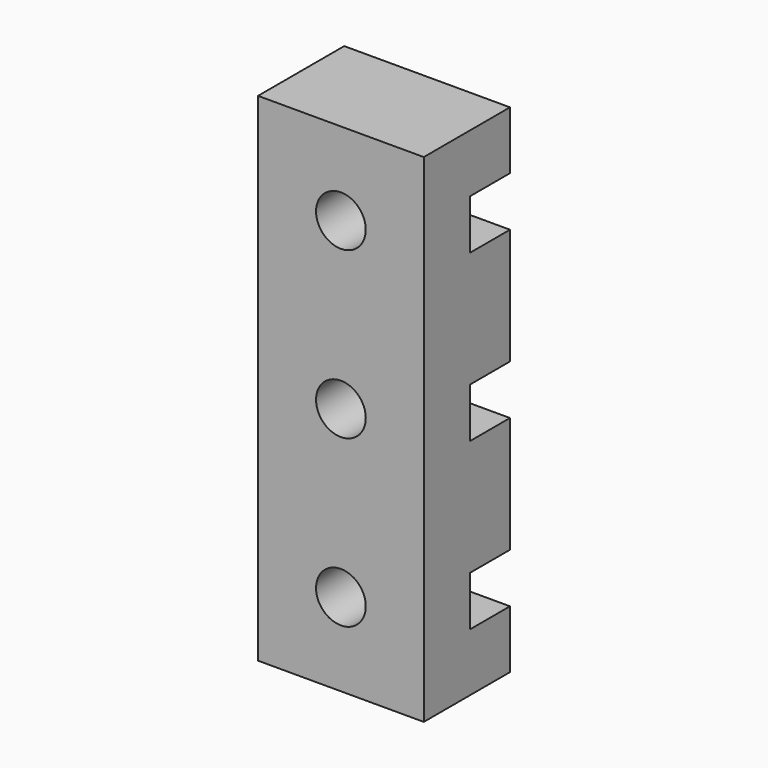
from build123d import *

# Parameters (mm, degrees)
SKETCH002_W     = 1.651
SKETCH002_H     = 7.62
PAD_DEPTH       = 2.54
SKETCH003_W     = 0.761982
SKETCH003_H     = 0.762
SKETCH003_W_2   = 0.761985
SKETCH003_W_3   = 0.761994
POCKET_DEPTH    = 1.778
SKETCH004_R     = 0.381
POCKET001_DEPTH = 1.652


with BuildPart() as part:
    # Sketch002 → Pad (new body)
    with BuildSketch(Plane.YZ):
        with Locations((0.8255, 0)):
            Rectangle(SKETCH002_W, SKETCH002_H)
    extrude(amount=PAD_DEPTH)

    # Sketch003 (on Face6 of Pad) → Pocket (cut)
    with BuildSketch(Plane.YZ.offset(2.54)):
        with Locations((1.27001, 2.54)):
            Rectangle(SKETCH003_W, SKETCH003_H)
        with Locations((1.270008, 0)):
            Rectangle(SKETCH003_W_2, SKETCH003_H)
        with Locations((1.270004, -2.54)):
            Rectangle(SKETCH003_W_3, SKETCH003_H)
    extrude(amount=-POCKET_DEPTH, mode=Mode.SUBTRACT)

    # Sketch004 (on Face2 of Pocket) → Pocket001 (cut, through all)
    with BuildSketch(Plane(origin=(0, 0, 0), x_dir=(0, 0, -1), z_dir=(0, -1, 0))):
        with Locations((0, 1.27)):
            Circle(SKETCH004_R)
        with Locations((-2.54, 1.27)):
            Circle(SKETCH004_R)
        with Locations((2.54, 1.27)):
            Circle(SKETCH004_R)
    extrude(amount=-POCKET001_DEPTH, mode=Mode.SUBTRACT)


solid = part.part
